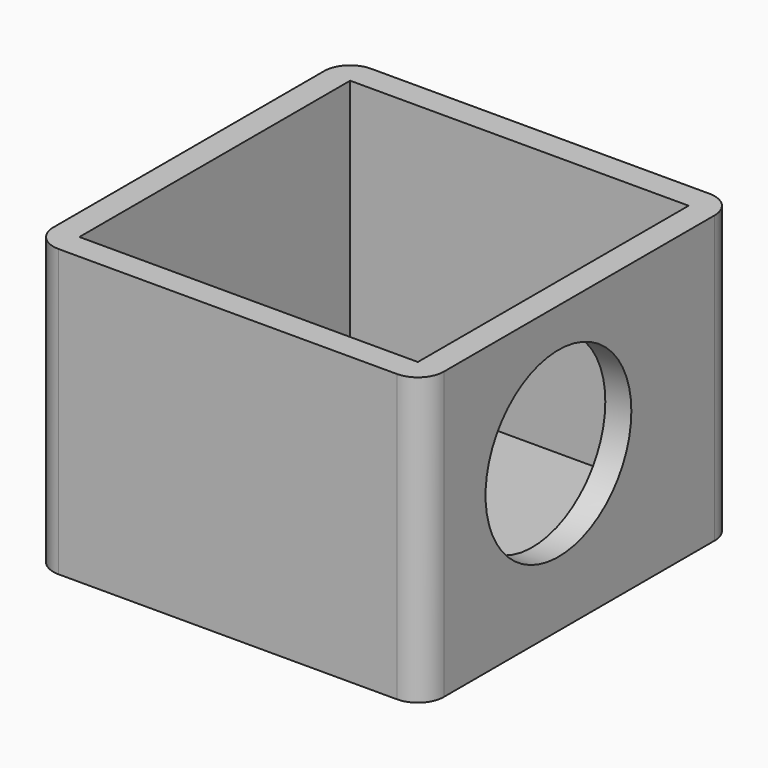
from build123d import *

# Parameters (mm, degrees)
SKETCH_W        = 30
SKETCH_H        = 30
PAD_DEPTH       = 2
SKETCH001_R     = 1.5
SKETCH001_R_2   = 2
POCKET_DEPTH    = 5
SKETCH002_W     = 30
SKETCH002_H     = 30
SKETCH002_W_2   = 26
SKETCH002_H_2   = 26
PAD001_DEPTH    = 20
SKETCH003_R     = 7
POCKET001_DEPTH = 5
FILLET_R        = 2
FILLET001_R     = 2
FILLET002_R     = 2
FILLET003_R     = 2


with BuildPart() as part:
    # Sketch → Pad (new body)
    with BuildSketch(Plane.XY):
        with Locations((15, 15)):
            Rectangle(SKETCH_W, SKETCH_H)
    extrude(amount=PAD_DEPTH)

    # Sketch001 → Pocket (cut)
    with BuildSketch(Plane.XY.offset(2)):
        with Locations((5, 25)):
            Circle(SKETCH001_R)
        with Locations((25, 25)):
            Circle(SKETCH001_R)
        with Locations((25, 10)):
            Circle(SKETCH001_R)
        with Locations((5, 10)):
            Circle(SKETCH001_R_2)
    extrude(amount=-POCKET_DEPTH, mode=Mode.SUBTRACT)

    # Sketch002 → Pad001 (new body)
    with BuildSketch(Plane.XY.offset(2)):
        with Locations((15, 15)):
            Rectangle(SKETCH002_W, SKETCH002_H)
        with Locations((15, 15)):
            Rectangle(SKETCH002_W_2, SKETCH002_H_2, mode=Mode.SUBTRACT)
    extrude(amount=PAD001_DEPTH)

    # Sketch003 → Pocket001 (cut)
    with BuildSketch(Plane.YZ.offset(30)):
        with Locations((13, 12)):
            Circle(SKETCH003_R)
    extrude(amount=-POCKET001_DEPTH, mode=Mode.SUBTRACT)

    # Fillet
    fillet_edges = [part.edges().sort_by_distance(p)[0] for p in [
        (30, 0, 11),
    ]]
    fillet(fillet_edges, radius=FILLET_R)

    # Fillet001
    fillet001_edges = [part.edges().sort_by_distance(p)[0] for p in [
        (30, 30, 11),
    ]]
    fillet(fillet001_edges, radius=FILLET001_R)

    # Fillet002
    fillet002_edges = [part.edges().sort_by_distance(p)[0] for p in [
        (0, 30, 11),
    ]]
    fillet(fillet002_edges, radius=FILLET002_R)

    # Fillet003
    fillet003_edges = [part.edges().sort_by_distance(p)[0] for p in [
        (0, 0, 11),
    ]]
    fillet(fillet003_edges, radius=FILLET003_R)


solid = part.part
